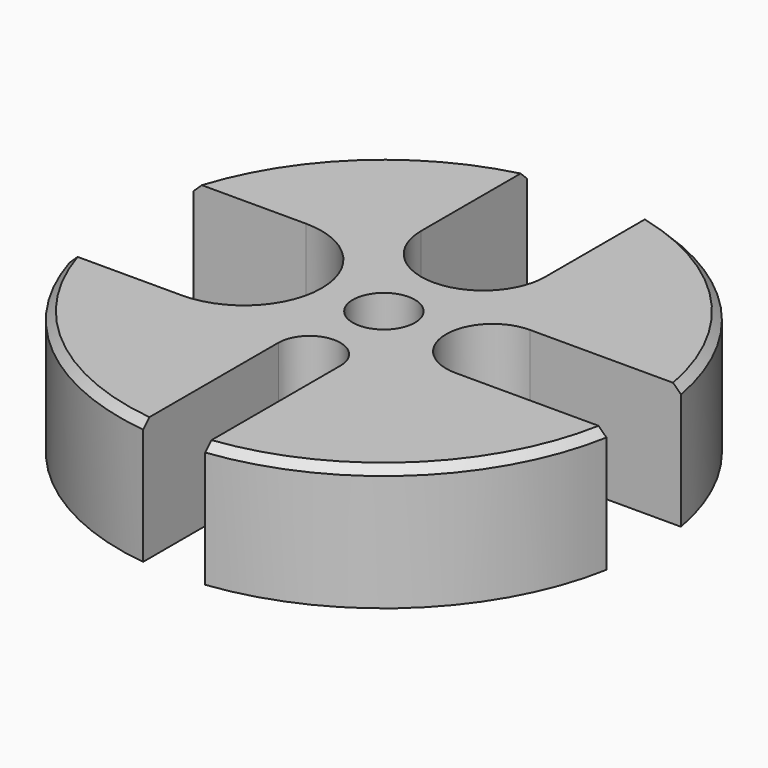
from build123d import *

# Parameters (mm, degrees)
F0_R     = 3.175
F1_DEPTH = 12.7
F2_SIZE  = 0.79375


with BuildPart() as f1:
    # F0 (on Top) → F1 (new body)
    with BuildSketch(Plane.XY):
        with BuildLine():
            Line((-6.35, 12.7), (-6.35, 26.229805))
            ThreePointArc((-6.35, 26.229805), (-18.492118, 19.656214), (-25.793822, 7.9375))
            Line((-25.793822, 7.9375), (-14.3002, 7.9375))
            ThreePointArc((-14.3002, 7.9375), (-6.3627, 0), (-14.3002, -7.9375))
            Line((-14.3002, -7.9375), (-25.793822, -7.9375))
            ThreePointArc((-25.793822, -7.9375), (-17.284312, -20.726257), (-3.175, -26.800085))
            Line((-3.175, -26.800085), (-3.175, -9.525))
            ThreePointArc((-3.175, -9.525), (0, -6.35), (3.175, -9.525))
            Line((3.175, -9.525), (3.175, -26.800085))
            ThreePointArc((3.175, -26.800085), (18.507165, -19.642047), (26.563956, -4.7625))
            Line((26.563956, -4.7625), (11.1252, -4.7625))
            ThreePointArc((11.1252, -4.7625), (6.3627, 0), (11.1252, 4.7625))
            Line((11.1252, 4.7625), (26.563956, 4.7625))
            ThreePointArc((26.563956, 4.7625), (19.647988, 18.500858), (6.35, 26.229805))
            Line((6.35, 26.229805), (6.35, 12.7))
            ThreePointArc((6.35, 12.7), (0, 6.35), (-6.35, 12.7))
        make_face()
        Circle(F0_R, mode=Mode.SUBTRACT)
    extrude(amount=F1_DEPTH)

    # F2
    f2_edges = [f1.edges().sort_by_distance(p)[0] for p in [
        (-17.284312, -20.726257, 12.7),
        (18.507165, -19.642047, 12.7),
        (19.647988, 18.500858, 12.7),
        (-18.492118, 19.656214, 12.7),
    ]]
    chamfer(f2_edges, length=F2_SIZE)


solid = f1.part
